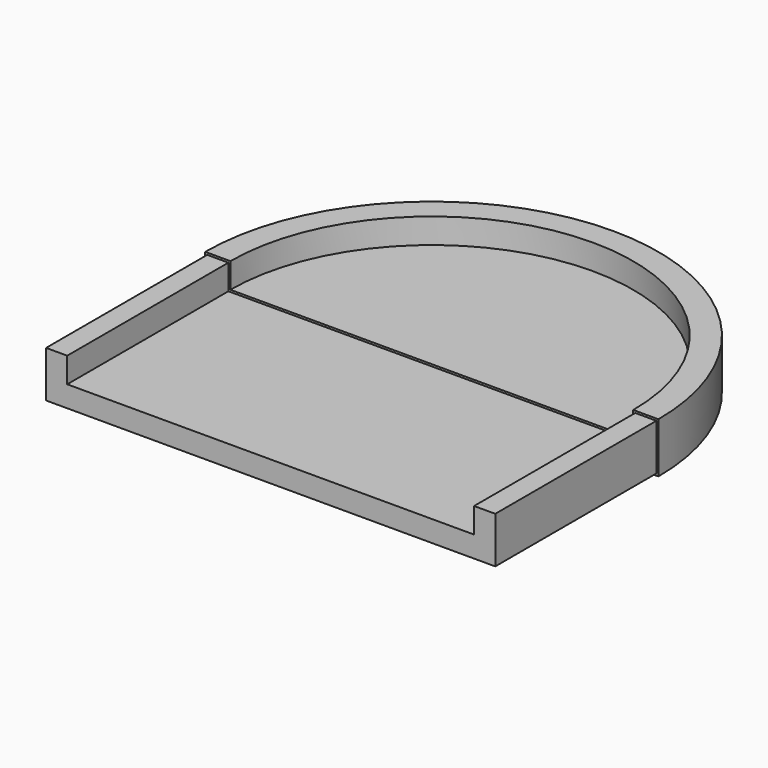
from build123d import *

# Parameters (mm, degrees)
F1_DEPTH = 3.175
F3_DEPTH = 3.175
F4_W     = 0.254
F4_H     = 25.4


with BuildPart() as f1:
    # F0 (on Top) → F1 (new body)
    with BuildSketch(Plane.XY):
        with BuildLine():
            Line((-3.175, 0), (0, 0))
            Line((0, 0), (0, 25.4))
            ThreePointArc((0, 25.4), (25.4, 50.8), (50.8, 25.4))
            Line((50.8, 25.4), (50.8, 0))
            Line((50.8, 0), (53.975, 0))
            Line((53.975, 0), (53.975, 25.4))
            ThreePointArc((53.975, 25.4), (25.4, 53.975), (-3.175, 25.4))
            Line((-3.175, 25.4), (-3.175, 0))
        make_face()
    extrude(amount=F1_DEPTH)

    # F2 (on face) → F3 (join)
    with BuildSketch(Plane(origin=(0, 0, 0), x_dir=(1, 0, 0), z_dir=(0, 0, -1))):
        with BuildLine():
            Line((53.975, -25.4), (53.975, 0))
            Line((53.975, 0), (-3.175, 0))
            Line((-3.175, 0), (-3.175, -25.4))
            ThreePointArc((-3.175, -25.4), (25.4, -53.975), (53.975, -25.4))
        make_face()
    extrude(amount=F3_DEPTH)

    # F5: sweep along a path in F5_path
    with BuildLine(Plane(origin=(-3.175, 0, 3.175), x_dir=(0, 0, -1), z_dir=(0, 1, 0))) as f5_path:
        Line((0, 0), (6.35, 0))
        Line((6.35, 0), (6.35, -57.15))
        Line((6.35, -57.15), (0, -57.15))
        Line((0, -57.15), (0, -53.975))
        Line((0, -53.975), (3.175, -53.975))
        Line((3.175, -53.975), (3.175, -3.175))
        Line((3.175, -3.175), (0, -3.175))
        Line((0, -3.175), (0, 0))
    # F4 (on face) → F5 (sweep, cut)
    with BuildSketch(Plane.XY.offset(3.175)):
        with Locations((-3.048, 12.7)):
            Rectangle(F4_W, F4_H)
    sweep(path=f5_path.line, transition=Transition.RIGHT, mode=Mode.SUBTRACT)


solid = f1.part
